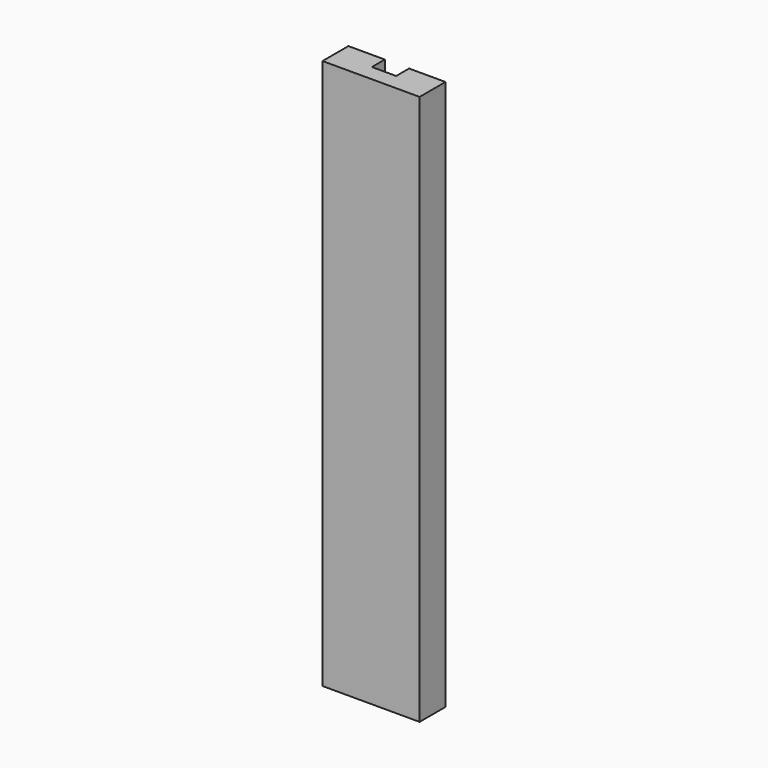
from build123d import *

# Parameters (mm, degrees)
F0_W     = 152.4
F0_H     = 50.8
F1_DEPTH = 863.6
F2_W     = 38.1
F2_H     = 50.8
F3_DEPTH = 25.4
F4_W     = 38.1
F4_H     = 50.8
F5_DEPTH = 25.4


with BuildPart() as f1:
    # F0 (on Top) → F1 (new body)
    with BuildSketch(Plane.XY):
        with Locations((76.2, -25.4)):
            Rectangle(F0_W, F0_H)
    extrude(amount=F1_DEPTH)

    # F2 (on face) → F3 (cut)
    with BuildSketch(Plane(origin=(0, 0, 0), x_dir=(-1, 0, 0), z_dir=(0, 1, 0))):
        with Locations((-76.2, 838.2)):
            Rectangle(F2_W, F2_H)
    extrude(amount=-F3_DEPTH, mode=Mode.SUBTRACT)

    # F4 (on face) → F5 (cut)
    with BuildSketch(Plane(origin=(0, 0, 0), x_dir=(-1, 0, 0), z_dir=(0, 1, 0))):
        with Locations((-76.2, 203.2)):
            Rectangle(F4_W, F4_H)
    extrude(amount=-F5_DEPTH, mode=Mode.SUBTRACT)


solid = f1.part
